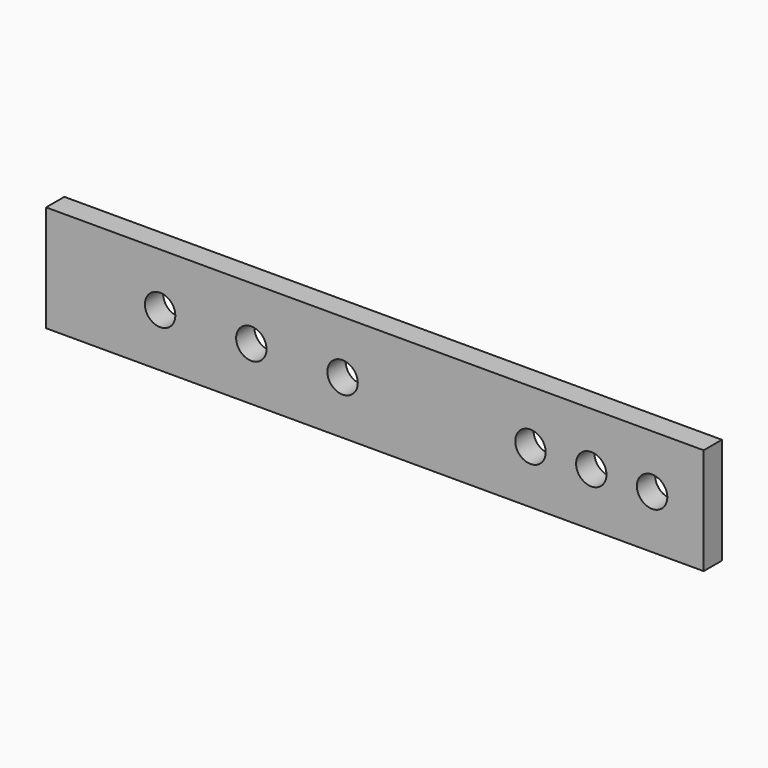
from build123d import *

# Parameters (mm, degrees)
F0_W     = 549.275
F0_H     = 88.9
F0_R     = 12.7
F1_DEPTH = 19.05


with BuildPart() as f1:
    # F0 (on Front) → F1 (new body)
    with BuildSketch(Plane.XZ):
        with Locations((-1183.601951, -410.921327)):
            Rectangle(F0_W, F0_H)
        with Locations((-1362.989451, -410.921327)):
            Circle(F0_R, mode=Mode.SUBTRACT)
        with Locations((-1286.789451, -410.921327)):
            Circle(F0_R, mode=Mode.SUBTRACT)
        with Locations((-1210.589451, -410.921327)):
            Circle(F0_R, mode=Mode.SUBTRACT)
        with Locations((-1053.638711, -410.921327)):
            Circle(F0_R, mode=Mode.SUBTRACT)
        with Locations((-1002.838711, -410.921327)):
            Circle(F0_R, mode=Mode.SUBTRACT)
        with Locations((-952.038711, -410.921327)):
            Circle(F0_R, mode=Mode.SUBTRACT)
    extrude(amount=F1_DEPTH)


solid = f1.part
